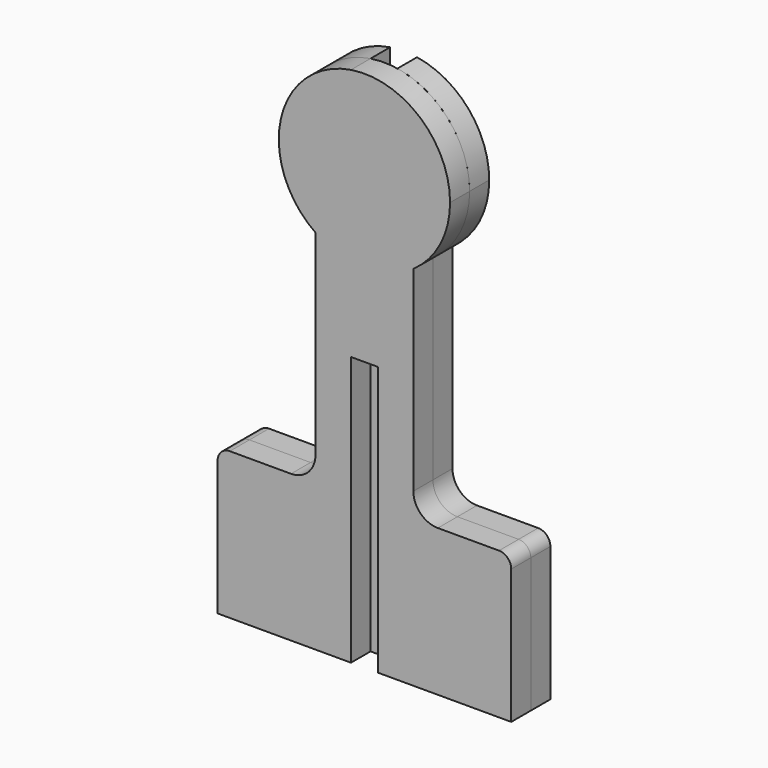
from build123d import *

# Parameters (mm, degrees)
F0_W     = 11
F0_H     = 63.2879690981
F1_DEPTH = 10
F0_H_2   = 60
F0_H_3   = 50
F2_DEPTH = 10


with BuildPart() as f1:
    # F0 (on Front) → F1 (new body)
    with BuildSketch(Plane.XZ):
        with BuildLine():
            Line((-5.5, 82.8839345293), (-5.5, 146.1719036274))
            ThreePointArc((-5.5, 146.1719036274), (-34.1160410678, 119.4231242793), (-20, 82.8839345293))
            Line((-20, 82.8839345293), (-5.5, 82.8839345293))
        make_face()
        with Locations((0, 114.5279190784)):
            Rectangle(F0_W, F0_H)
        with BuildLine():
            ThreePointArc((20, 82.8839345293), (31.024184115, 95.404896016), (35, 111.606747762))
            ThreePointArc((35, 111.606747762), (26.6223590239, 134.327883297), (5.5, 146.1719036274))
            Line((5.5, 146.1719036274), (5.5, 82.8839345293))
            Line((5.5, 82.8839345293), (20, 82.8839345293))
        make_face()
        with BuildLine():
            ThreePointArc((5.5, 77.0415918966), (13.0803570998, 79.142856157), (20, 82.8839345293))
            Line((20, 82.8839345293), (5.5, 82.8839345293))
            Line((5.5, 82.8839345293), (5.5, 77.0415918966))
        make_face()
        with BuildLine():
            Line((5.5, 77.0415918966), (5.5, 82.8839345293))
            Line((5.5, 82.8839345293), (-5.5, 82.8839345293))
            Line((-5.5, 82.8839345293), (-5.5, 77.0415918966))
            ThreePointArc((-5.5, 77.0415918966), (0, 76.606747762), (5.5, 77.0415918966))
        make_face()
        with BuildLine():
            Line((-5.5, 82.8839345293), (-20, 82.8839345293))
            ThreePointArc((-20, 82.8839345293), (-13.0803570998, 79.142856157), (-5.5, 77.0415918966))
            Line((-5.5, 77.0415918966), (-5.5, 82.8839345293))
        make_face()
        with BuildLine():
            ThreePointArc((-5.5, 77.0415918966), (-13.0803570998, 79.142856157), (-20, 82.8839345293))
            Line((-20, 82.8839345293), (-20, 2.8839345293))
            ThreePointArc((-20, 2.8839345293), (-22.9289321881, -4.1871332825), (-30, -7.1160654707))
            Line((-30, -7.1160654707), (-55, -7.1160654707))
            ThreePointArc((-55, -7.1160654707), (-58.5355339059, -8.5805315647), (-60, -12.1160654707))
            Line((-60, -12.1160654707), (-60, -67.1160654707))
            Line((-60, -67.1160654707), (-5.5, -67.1160654707))
            Line((-5.5, -67.1160654707), (-5.5, -7.1160654707))
            Line((-5.5, -7.1160654707), (-5.5, 42.8839345293))
            Line((-5.5, 42.8839345293), (-5.5, 77.0415918966))
        make_face()
        with BuildLine():
            Line((20, 2.8839345293), (20, 82.8839345293))
            ThreePointArc((20, 82.8839345293), (13.0803570998, 79.142856157), (5.5, 77.0415918966))
            Line((5.5, 77.0415918966), (5.5, 42.8839345293))
            Line((5.5, 42.8839345293), (5.5, -7.1160654707))
            Line((5.5, -7.1160654707), (5.5, -67.1160654707))
            Line((5.5, -67.1160654707), (60, -67.1160654707))
            Line((60, -67.1160654707), (60, -12.1160654707))
            ThreePointArc((60, -12.1160654707), (58.5355339059, -8.5805315647), (55, -7.1160654707))
            Line((55, -7.1160654707), (30, -7.1160654707))
            ThreePointArc((30, -7.1160654707), (22.9289321881, -4.1871332825), (20, 2.8839345293))
        make_face()
        with BuildLine():
            Line((5.5, 42.8839345293), (5.5, 77.0415918966))
            ThreePointArc((5.5, 77.0415918966), (0, 76.606747762), (-5.5, 77.0415918966))
            Line((-5.5, 77.0415918966), (-5.5, 42.8839345293))
            Line((-5.5, 42.8839345293), (5.5, 42.8839345293))
        make_face()
        with BuildLine():
            Line((-5.5, 146.1719036274), (5.5, 146.1719036274))
            ThreePointArc((5.5, 146.1719036274), (0, 146.606747762), (-5.5, 146.1719036274))
        make_face()
    extrude(amount=F1_DEPTH)


with BuildPart() as f2:
    # F0 (on Front) → F2 (new body)
    with BuildSketch(Plane.XZ):
        with BuildLine():
            Line((-5.5, 82.8839345293), (-5.5, 146.1719036274))
            ThreePointArc((-5.5, 146.1719036274), (-34.1160410678, 119.4231242793), (-20, 82.8839345293))
            Line((-20, 82.8839345293), (-5.5, 82.8839345293))
        make_face()
        with BuildLine():
            ThreePointArc((20, 82.8839345293), (31.024184115, 95.404896016), (35, 111.606747762))
            ThreePointArc((35, 111.606747762), (26.6223590239, 134.327883297), (5.5, 146.1719036274))
            Line((5.5, 146.1719036274), (5.5, 82.8839345293))
            Line((5.5, 82.8839345293), (20, 82.8839345293))
        make_face()
        with BuildLine():
            Line((-5.5, 82.8839345293), (-20, 82.8839345293))
            ThreePointArc((-20, 82.8839345293), (-13.0803570998, 79.142856157), (-5.5, 77.0415918966))
            Line((-5.5, 77.0415918966), (-5.5, 82.8839345293))
        make_face()
        with BuildLine():
            ThreePointArc((5.5, 77.0415918966), (13.0803570998, 79.142856157), (20, 82.8839345293))
            Line((20, 82.8839345293), (5.5, 82.8839345293))
            Line((5.5, 82.8839345293), (5.5, 77.0415918966))
        make_face()
        with Locations((0, -37.1160654707)):
            Rectangle(F0_W, F0_H_2)
        with BuildLine():
            ThreePointArc((-5.5, 77.0415918966), (-13.0803570998, 79.142856157), (-20, 82.8839345293))
            Line((-20, 82.8839345293), (-20, 2.8839345293))
            ThreePointArc((-20, 2.8839345293), (-22.9289321881, -4.1871332825), (-30, -7.1160654707))
            Line((-30, -7.1160654707), (-55, -7.1160654707))
            ThreePointArc((-55, -7.1160654707), (-58.5355339059, -8.5805315647), (-60, -12.1160654707))
            Line((-60, -12.1160654707), (-60, -67.1160654707))
            Line((-60, -67.1160654707), (-5.5, -67.1160654707))
            Line((-5.5, -67.1160654707), (-5.5, -7.1160654707))
            Line((-5.5, -7.1160654707), (-5.5, 42.8839345293))
            Line((-5.5, 42.8839345293), (-5.5, 77.0415918966))
        make_face()
        with BuildLine():
            Line((20, 2.8839345293), (20, 82.8839345293))
            ThreePointArc((20, 82.8839345293), (13.0803570998, 79.142856157), (5.5, 77.0415918966))
            Line((5.5, 77.0415918966), (5.5, 42.8839345293))
            Line((5.5, 42.8839345293), (5.5, -7.1160654707))
            Line((5.5, -7.1160654707), (5.5, -67.1160654707))
            Line((5.5, -67.1160654707), (60, -67.1160654707))
            Line((60, -67.1160654707), (60, -12.1160654707))
            ThreePointArc((60, -12.1160654707), (58.5355339059, -8.5805315647), (55, -7.1160654707))
            Line((55, -7.1160654707), (30, -7.1160654707))
            ThreePointArc((30, -7.1160654707), (22.9289321881, -4.1871332825), (20, 2.8839345293))
        make_face()
        with Locations((0, 17.8839345293)):
            Rectangle(F0_W, F0_H_3)
    extrude(amount=-F2_DEPTH)


solid = Compound([f1.part, f2.part])
